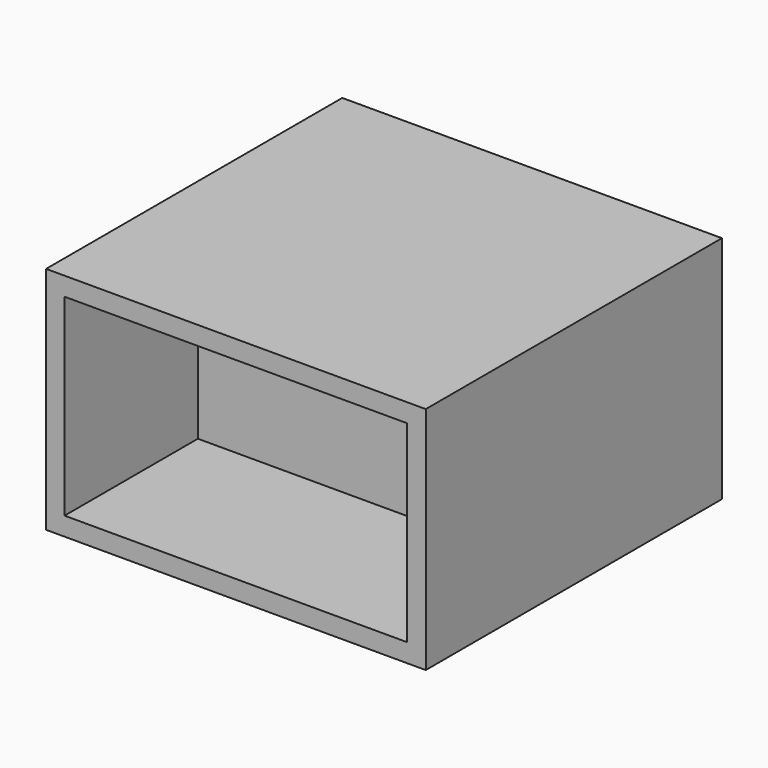
from build123d import *

# Parameters (mm, degrees)
F0_W     = 51.280171
F0_H     = 31.031217
F1_DEPTH = 25
F2_T     = -2.5


with BuildPart() as f1:
    # F0 (on Front) → F1 (new body)
    with BuildSketch(Plane.XZ):
        with Locations((-49.981937, 44.316455)):
            Rectangle(F0_W, F0_H)
    extrude(amount=F1_DEPTH)

    # F2
    f2_openings = [f1.faces().sort_by_distance(p)[0] for p in [
        (-49.981937, -25, 44.316456),
    ]]
    offset(amount=F2_T, openings=f2_openings)

    # F3: F1 across face


with BuildPart() as f1_1:
    add(f1.part)
    add(f1.part.mirror(Plane(origin=(-49.981937, 0, 44.316456), x_dir=(1, 0, 0), z_dir=(0, 1, 0))))


solid = f1_1.part
